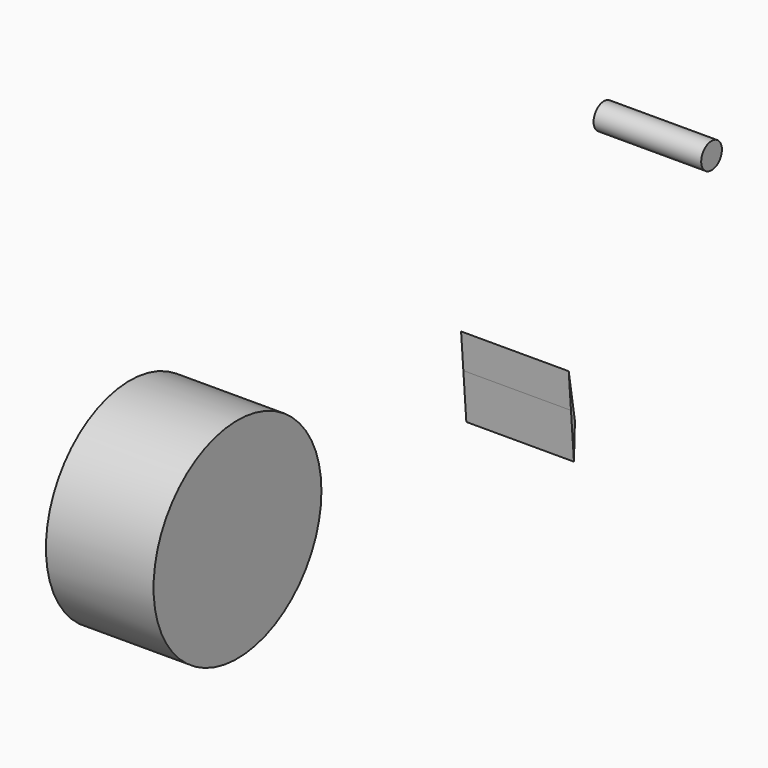
from build123d import *

# Parameters (mm, degrees)
F0_R     = 24.763205
F0_R_2   = 3.056075
F1_DEPTH = 25.4


with BuildPart() as f1:
    # F0 (on Right) → F1 (new body)
    with BuildSketch(Plane.YZ):
        with Locations((-102.656163, 33.086043)):
            Circle(F0_R)
        with Locations((37.199445, 55.978008)):
            Circle(F0_R_2)
        Polygon((-4.275247, 19.899973), (-3.397212, 8.875763), (-3.234661, 13.553892), align=None)
        Polygon((-4.945643, 28.31717), (-4.275247, 19.899973), (-3.234661, 13.553892), (-3.107663, 17.208809), align=None)
    extrude(amount=F1_DEPTH)


solid = f1.part
